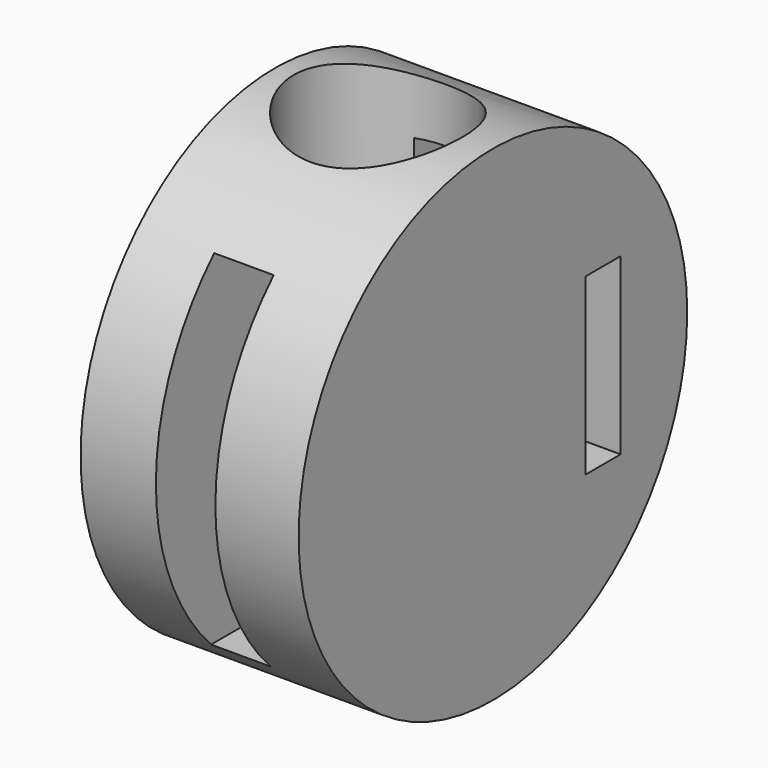
from build123d import *

# Parameters (mm, degrees)
F0_W     = 41.098144
F0_H     = 45.76838
F2_W     = 8.219628
F2_H     = 32.878513
F3_DEPTH = 22.5
F4_W     = 11.208584
F4_H     = 64.636167
F5_DEPTH = 50
F6_R     = 15.878829
F7_DEPTH = 50


with BuildPart() as f1:
    # F0 (on Top) → F1 (revolve)
    with BuildSketch(Plane.XY):
        with Locations((1.120867, 22.88419)):
            Rectangle(F0_W, F0_H)
    revolve(axis=Axis((1.120867, 0, 0), (1, 0, 0)))

    # F2 (on Right) → F3 (cut, symmetric)
    with BuildSketch(Plane.YZ):
        with Locations((25.966552, -0.747239)):
            Rectangle(F2_W, F2_H)
    extrude(amount=F3_DEPTH, both=True, mode=Mode.SUBTRACT)

    # F4 (on Front) → F5 (cut, symmetric)
    with BuildSketch(Plane.XZ):
        with Locations((0.373617, 0.373619)):
            Rectangle(F4_W, F4_H)
    extrude(amount=F5_DEPTH, both=True, mode=Mode.SUBTRACT)

    # F6 (on Top) → F7 (cut, symmetric)
    with BuildSketch(Plane.XY):
        Circle(F6_R)
    extrude(amount=F7_DEPTH, both=True, mode=Mode.SUBTRACT)


solid = f1.part
